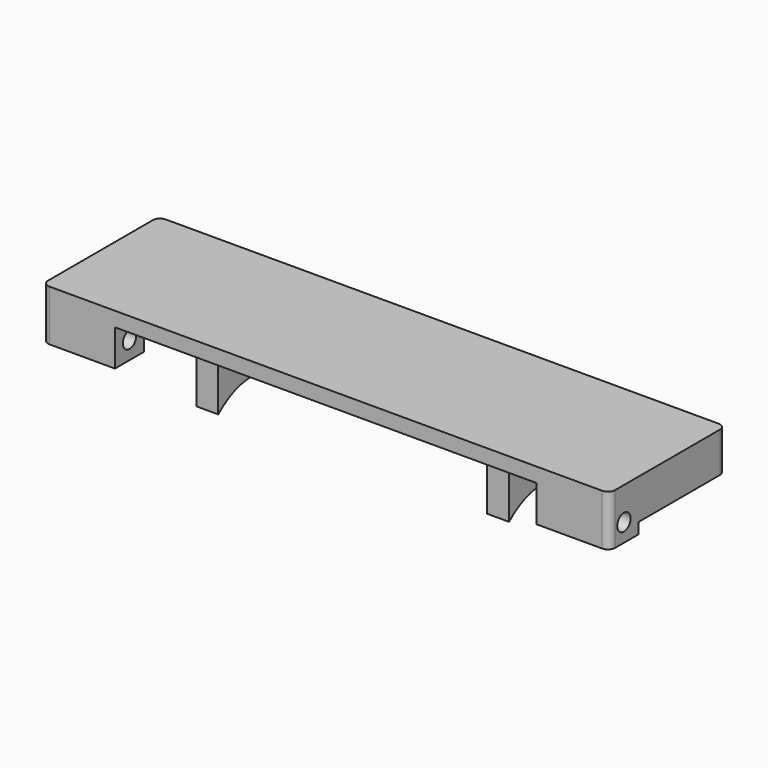
from build123d import *

# Parameters (mm, degrees)
SKETCH_W     = 78
SKETCH_H     = 20
PAD_DEPTH    = 2
SKETCH001_W  = 10
SKETCH001_H  = 5
PAD001_DEPTH = 5
SKETCH002_R  = 1.15
POCKET_DEPTH = 78.001
SKETCH003_W  = 3
SKETCH003_H  = 15
PAD002_DEPTH = 3.5
PAD003_DEPTH = 3
PAD004_DEPTH = 3
FILLET_R     = 1
SKETCH006_W  = 78
SKETCH006_H  = 2
PAD005_DEPTH = 3


with BuildPart() as part:
    # Sketch → Pad (new body)
    with BuildSketch(Plane.XY):
        Rectangle(SKETCH_W, SKETCH_H)
    extrude(amount=PAD_DEPTH)

    # Sketch001 (on Face5 of Pad) → Pad001 (join)
    with BuildSketch(Plane(origin=(0, 0, 0), x_dir=(1, 0, 0), z_dir=(0, 0, -1))):
        with Locations((34, 7.5)):
            Rectangle(SKETCH001_W, SKETCH001_H)
        with Locations((-34, 7.5)):
            Rectangle(SKETCH001_W, SKETCH001_H)
    extrude(amount=PAD001_DEPTH)

    # Sketch002 (on Face8 of Pad001) → Pocket (cut, through all)
    with BuildSketch(Plane.YZ.offset(39)):
        with Locations((-7.5, -2.5)):
            Circle(SKETCH002_R)
    extrude(amount=-POCKET_DEPTH, mode=Mode.SUBTRACT)

    # Sketch003 (on Face4 of Pocket) → Pad002 (join)
    with BuildSketch(Plane(origin=(0, 0, 0), x_dir=(1, 0, 0), z_dir=(0, 0, -1))):
        with Locations((37.5, -2.5)):
            Rectangle(SKETCH003_W, SKETCH003_H)
        with Locations((-37.5, -2.5)):
            Rectangle(SKETCH003_W, SKETCH003_H)
    extrude(amount=PAD002_DEPTH)

    # Sketch004 (on Face3 of Pad002) → Pad003 (join)
    with BuildSketch(Plane.YZ.offset(-21)):
        with BuildLine():
            Line((-6, 0), (6, 0))
            Line((6, 0), (6, -8.6))
            ThreePointArc((6, -8.6), (0, -6.308204), (-6, -8.6))
            Line((-6, 0), (-6, -8.6))
        make_face()
    extrude(amount=PAD003_DEPTH)

    # Sketch005 (on Face3 of Pad002) → Pad004 (join)
    with BuildSketch(Plane.YZ.offset(19)):
        with BuildLine():
            Line((-6, 0), (6, 0))
            Line((6, 0), (6, -8.6))
            ThreePointArc((6, -8.6), (0, -6.308204), (-6, -8.6))
            Line((-6, 0), (-6, -8.6))
        make_face()
    extrude(amount=PAD004_DEPTH)

    # Fillet
    fillet_edges = [part.edges().sort_by_distance(p)[0] for p in [
        (39, 10, 1),
        (39, 10, -1.75),
        (39, -10, -2.5),
        (39, -10, 1),
        (-39, -10, 1),
        (-39, -10, -2.5),
        (-39, 10, 1),
        (-39, 10, -1.75),
    ]]
    fillet(fillet_edges, radius=FILLET_R)

    # Sketch006 (on Face4 of Fillet) → Pad005 (join)
    with BuildSketch(Plane(origin=(0, 0, 0), x_dir=(1, 0, 0), z_dir=(0, 0, -1))):
        Rectangle(SKETCH006_W, SKETCH006_H)
        with Locations((0, -8)):
            Rectangle(SKETCH006_W, SKETCH006_H)
    extrude(amount=PAD005_DEPTH)


solid = part.part
